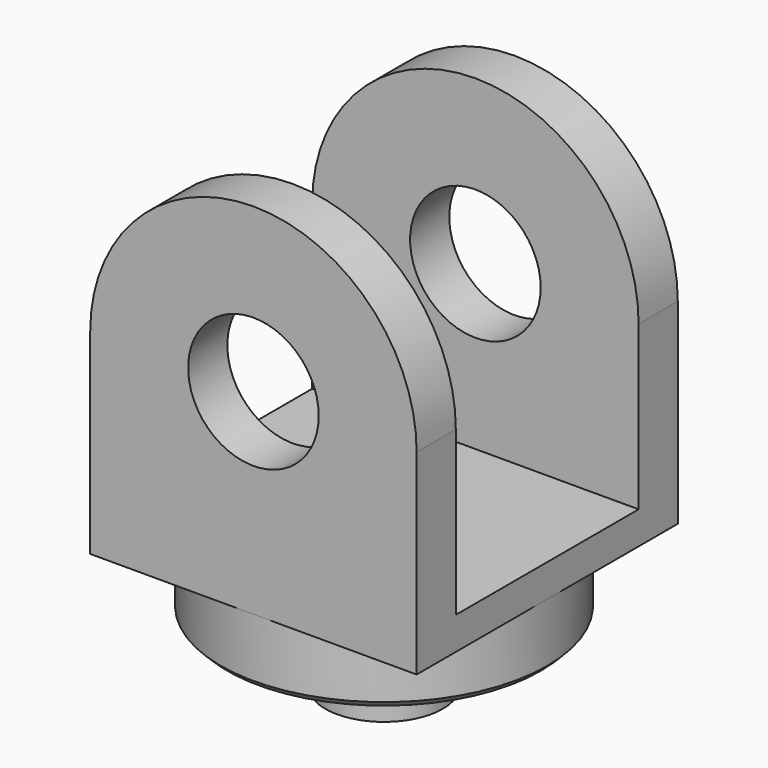
from build123d import *

# Parameters (mm, degrees)
SKETCH_R        = 50
PAD_DEPTH       = 20
CHAMFER_SIZE    = 2
SKETCH001_R     = 18
PAD001_DEPTH    = 20
SKETCH002_W     = 100
SKETCH002_H     = 100
PAD002_DEPTH    = 10
PAD003_DEPTH    = 50
SKETCH004_R     = 20
POCKET_DEPTH    = 101
SKETCH005_W     = 100
SKETCH005_H     = 101
POCKET001_DEPTH = 35


with BuildPart() as part:
    # Sketch → Pad (new body)
    with BuildSketch(Plane.XY):
        Circle(SKETCH_R)
    extrude(amount=PAD_DEPTH)

    # Chamfer
    chamfer_edges = [part.edges().sort_by_distance(p)[0] for p in [
        (-50, 0, 0),
    ]]
    chamfer(chamfer_edges, length=CHAMFER_SIZE)

    # Sketch001 (on Face4 of Chamfer) → Pad001 (join)
    with BuildSketch(Plane(origin=(0, 0, 0), x_dir=(1, 0, 0), z_dir=(0, 0, -1))):
        Circle(SKETCH001_R)
    extrude(amount=PAD001_DEPTH)

    # Sketch002 (on Face3 of Pad001) → Pad002 (join)
    with BuildSketch(Plane.XY.offset(20)):
        Rectangle(SKETCH002_W, SKETCH002_H)
    extrude(amount=PAD002_DEPTH)

    # Sketch003 → Pad003 (join, symmetric)
    with BuildSketch(Plane.XZ):
        with BuildLine():
            ThreePointArc((50, 80), (0, 130), (-50, 80))
            Line((-50, 30), (-50, 80))
            Line((50, 30), (-50, 30))
            Line((50, 80), (50, 30))
        make_face()
    extrude(amount=PAD003_DEPTH, both=True)

    # Sketch004 (on Face13 of Pad003) → Pocket (cut)
    with BuildSketch(Plane.XZ.offset(50)):
        with Locations((0, 80)):
            Circle(SKETCH004_R)
    extrude(amount=-POCKET_DEPTH, mode=Mode.SUBTRACT)

    # Sketch005 → Pocket001 (cut, symmetric)
    with BuildSketch(Plane.XZ):
        with Locations((0, 80.5)):
            Rectangle(SKETCH005_W, SKETCH005_H)
    extrude(amount=POCKET001_DEPTH, both=True, mode=Mode.SUBTRACT)


solid = part.part
